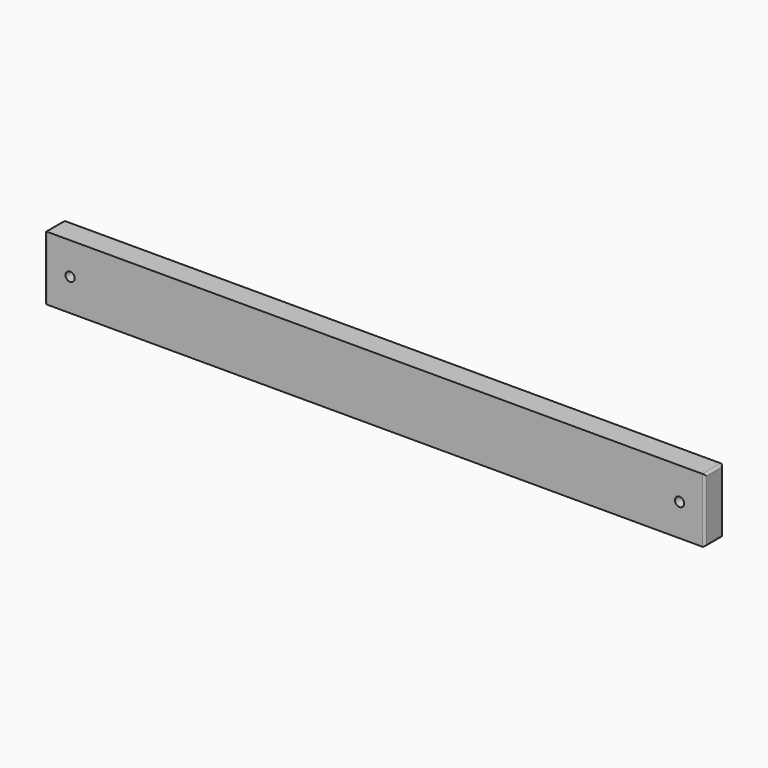
from build123d import *

# Parameters (mm, degrees)
F0_W     = 25
F0_H     = 70
F1_DEPTH = 720
F2_R     = 2.5
F3_R     = 2.5
F4_R     = 5
F5_DEPTH = 25.001


with BuildPart() as f1:
    # F0 (on Right) → F1 (new body)
    with BuildSketch(Plane.YZ):
        with Locations((-12.5, 35)):
            Rectangle(F0_W, F0_H)
    extrude(amount=-F1_DEPTH)

    # F2
    f2_edges = [f1.edges().sort_by_distance(p)[0] for p in [
        (0, -12.5, 0),
        (0, 0, 35),
        (0, -12.5, 70),
        (0, -25, 35),
    ]]
    fillet(f2_edges, radius=F2_R)

    # F3
    f3_edges = [f1.edges().sort_by_distance(p)[0] for p in [
        (-720, -12.5, 0),
        (-720, 0, 35),
        (-720, -12.5, 70),
        (-720, -25, 35),
    ]]
    fillet(f3_edges, radius=F3_R)

    # F4 (on face) → F5 (cut, through all)
    with BuildSketch(Plane.XZ.offset(25)):
        with Locations((-692.5, 35)):
            Circle(F4_R)
        with Locations((-27.5, 35)):
            Circle(F4_R)
    extrude(amount=-F5_DEPTH, mode=Mode.SUBTRACT)


solid = f1.part
